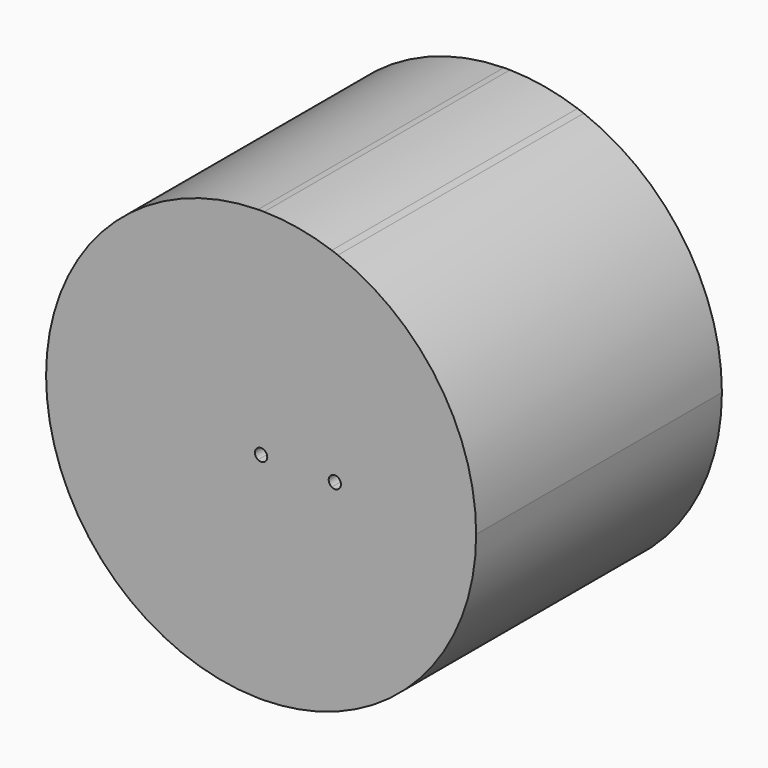
from build123d import *

# Parameters (mm, degrees)
F1_DEPTH = 25


with BuildPart() as f1:
    # F0 (on Front) → F1 (new body)
    with BuildSketch(Plane.XZ):
        with BuildLine():
            Line((-0.25, 0.4330127019), (-0.25, 17.4982141946))
            ThreePointArc((-0.25, 17.4982141946), (-17.5, 0), (-0.25, -17.4982141946))
            Line((-0.25, -17.4982141946), (-0.25, -0.4330127019))
            ThreePointArc((-0.25, -0.4330127019), (-0.5, 0), (-0.25, 0.4330127019))
        make_face()
        with BuildLine():
            Line((5.75, 0.4330127019), (5.75, 16.5283846761))
            ThreePointArc((5.75, 16.5283846761), (3.0389376966, 17.2341189991), (0.25, 17.4982141946))
            Line((0.25, 17.4982141946), (0.25, 0.4330127019))
            ThreePointArc((0.25, 0.4330127019), (0.4330127019, 0.25), (0.5, 0))
            ThreePointArc((0.5, 0), (0.4330127019, -0.25), (0.25, -0.4330127019))
            Line((0.25, -0.4330127019), (0.25, -17.4982141946))
            ThreePointArc((0.25, -17.4982141946), (3.0389376966, -17.2341189991), (5.75, -16.5283846761))
            Line((5.75, -16.5283846761), (5.75, -0.4330127019))
            ThreePointArc((5.75, -0.4330127019), (5.5, 0), (5.75, 0.4330127019))
        make_face()
        with BuildLine():
            Line((0.25, 0.4330127019), (0.25, 17.4982141946))
            ThreePointArc((0.25, 17.4982141946), (0, 17.5), (-0.25, 17.4982141946))
            Line((-0.25, 17.4982141946), (-0.25, 0.4330127019))
            ThreePointArc((-0.25, 0.4330127019), (0, 0.5), (0.25, 0.4330127019))
        make_face()
        with BuildLine():
            ThreePointArc((-0.25, -17.4982141946), (0, -17.5), (0.25, -17.4982141946))
            Line((0.25, -17.4982141946), (0.25, -0.4330127019))
            ThreePointArc((0.25, -0.4330127019), (0, -0.5), (-0.25, -0.4330127019))
            Line((-0.25, -0.4330127019), (-0.25, -17.4982141946))
        make_face()
        with BuildLine():
            ThreePointArc((5.75, -16.5283846761), (6.0006939438, -16.439028931), (6.25, -16.3458710383))
            Line((6.25, -16.3458710383), (6.25, -0.4330127019))
            ThreePointArc((6.25, -0.4330127019), (6, -0.5), (5.75, -0.4330127019))
            Line((5.75, -0.4330127019), (5.75, -16.5283846761))
        make_face()
        with BuildLine():
            Line((6.25, 0.4330127019), (6.25, 16.3458710383))
            ThreePointArc((6.25, 16.3458710383), (6.0006939438, 16.439028931), (5.75, 16.5283846761))
            Line((5.75, 16.5283846761), (5.75, 0.4330127019))
            ThreePointArc((5.75, 0.4330127019), (6, 0.5), (6.25, 0.4330127019))
        make_face()
        with BuildLine():
            ThreePointArc((6.25, -16.3458710383), (14.4157032433, -9.9215674165), (17.5, 0))
            ThreePointArc((17.5, 0), (14.4157032433, 9.9215674165), (6.25, 16.3458710383))
            Line((6.25, 16.3458710383), (6.25, 0.4330127019))
            ThreePointArc((6.25, 0.4330127019), (6.4330127019, 0.25), (6.5, 0))
            ThreePointArc((6.5, 0), (6.4330127019, -0.25), (6.25, -0.4330127019))
            Line((6.25, -0.4330127019), (6.25, -16.3458710383))
        make_face()
    extrude(amount=F1_DEPTH)


solid = f1.part
